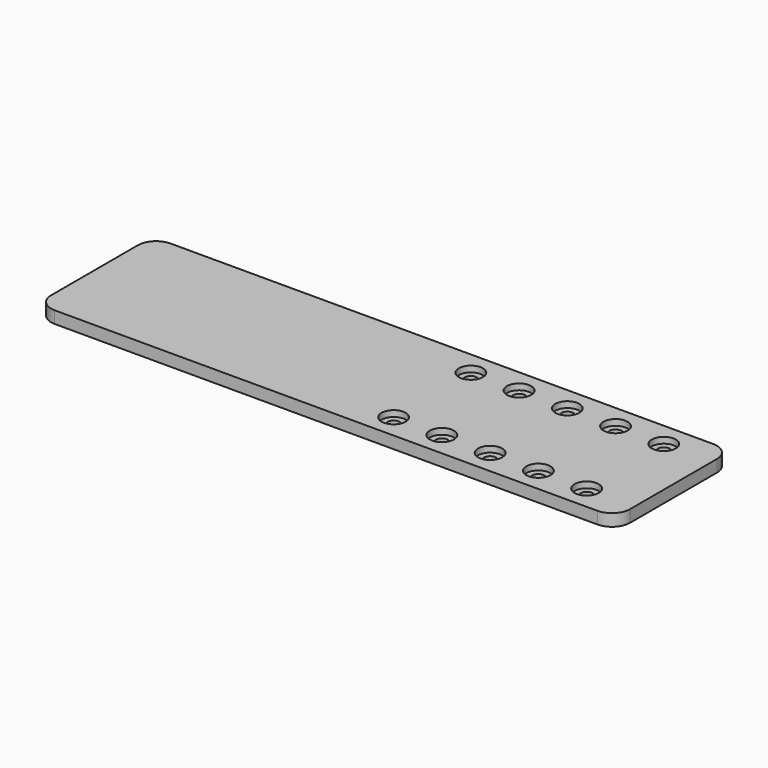
from build123d import *

# Parameters (mm, degrees)
F0_W     = 48
F0_H     = 12
F1_DEPTH = 1
F3_R     = 1.5
F4_R     = 0.5
F6_DEPTH = 1
F5_R     = 1
F7_DEPTH = 0.5


with BuildPart() as f1:
    # F0 (on Top) → F1 (new body)
    with BuildSketch(Plane.XY):
        Rectangle(F0_W, F0_H)
    extrude(amount=F1_DEPTH)

    # F3
    f3_edges = [f1.edges().sort_by_distance(p)[0] for p in [
        (24, -6, 0.5),
        (24, 6, 0.5),
        (-24, 6, 0.5),
        (-24, -6, 0.5),
    ]]
    fillet(f3_edges, radius=F3_R)

    # F4 (on face) → F6 (cut)
    with BuildSketch(Plane.XY.offset(1)):
        with Locations((4, 4)):
            Circle(F4_R)
        with Locations((8, 4)):
            Circle(F4_R)
        with Locations((12, 4)):
            Circle(F4_R)
        with Locations((16, 4)):
            Circle(F4_R)
        with Locations((20, 4)):
            Circle(F4_R)
        with Locations((20, -4)):
            Circle(F4_R)
        with Locations((16, -4)):
            Circle(F4_R)
        with Locations((12, -4)):
            Circle(F4_R)
        with Locations((8, -4)):
            Circle(F4_R)
        with Locations((4, -4)):
            Circle(F4_R)
    extrude(amount=-F6_DEPTH, mode=Mode.SUBTRACT)

    # F5 (on face) → F7 (cut)
    with BuildSketch(Plane.XY.offset(1)):
        with Locations((4, 4)):
            Circle(F5_R)
        with Locations((8, 4)):
            Circle(F5_R)
        with Locations((12, 4)):
            Circle(F5_R)
        with Locations((16, 4)):
            Circle(F5_R)
        with Locations((20, 4)):
            Circle(F5_R)
        with Locations((20, -4)):
            Circle(F5_R)
        with Locations((16, -4)):
            Circle(F5_R)
        with Locations((12, -4)):
            Circle(F5_R)
        with Locations((8, -4)):
            Circle(F5_R)
        with Locations((4, -4)):
            Circle(F5_R)
    extrude(amount=-F7_DEPTH, mode=Mode.SUBTRACT)


solid = f1.part
